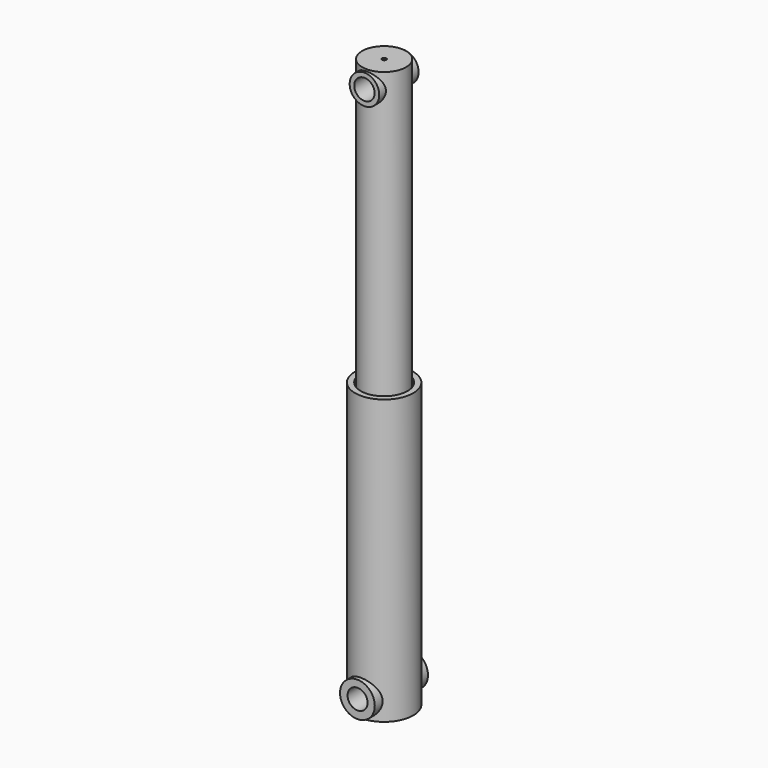
from build123d import *

# Parameters (mm, degrees)
F0_W      = 39.850918
F0_H      = 627.391722
F4_R      = 34.897971
F5_DEPTH  = 66.7345
F3_R      = 20.073344
F6_DEPTH  = 150.476811
F7_R      = 29.679405
F8_DEPTH  = 49.453206
F9_R      = 20.483276
F10_DEPTH = 250.855178


with BuildPart() as f1:
    # F0 (on Front) → F1 (revolve)
    with BuildSketch(Plane.XZ):
        with Locations((24.161064, 257.804139)):
            Rectangle(F0_W, F0_H)
    revolve(axis=Axis((0, 0, 285.75), (0, 0, 1)))

    # F7 (on Front) → F8 (join, symmetric)
    with BuildSketch(Plane.XZ):
        with Locations((0, 537.991047)):
            Circle(F7_R)
    extrude(amount=F8_DEPTH, both=True)

    # F9 (on face) → F10 (cut)
    with BuildSketch(Plane.XZ.offset(49.453206)):
        with Locations((0, 537.991047)):
            Circle(F9_R)
    extrude(amount=-F10_DEPTH, mode=Mode.SUBTRACT)


with BuildPart() as f2:
    # F0 (on Front) → F2 (revolve)
    with BuildSketch(Plane.XZ):
        Polygon((58.333613, 0), (47.039699, 0), (47.039699, -497.733235), (4.037225, -497.772336), (6.737504, -571.5), (58.333613, -569.787383), align=None)
    revolve(axis=Axis((0, 0, -285.75), (0, 0, -1)))

    # F4 (on Front) → F5 (join, symmetric)
    with BuildSketch(Plane.XZ):
        with Locations((-0.315376, -533.241272)):
            Circle(F4_R)
    extrude(amount=F5_DEPTH, both=True)

    # F3 (on Front) → F6 (cut, symmetric)
    with BuildSketch(Plane.XZ):
        with Locations((0, -532.687664)):
            Circle(F3_R)
    extrude(amount=F6_DEPTH, both=True, mode=Mode.SUBTRACT)


solid = Compound([f1.part, f2.part])
